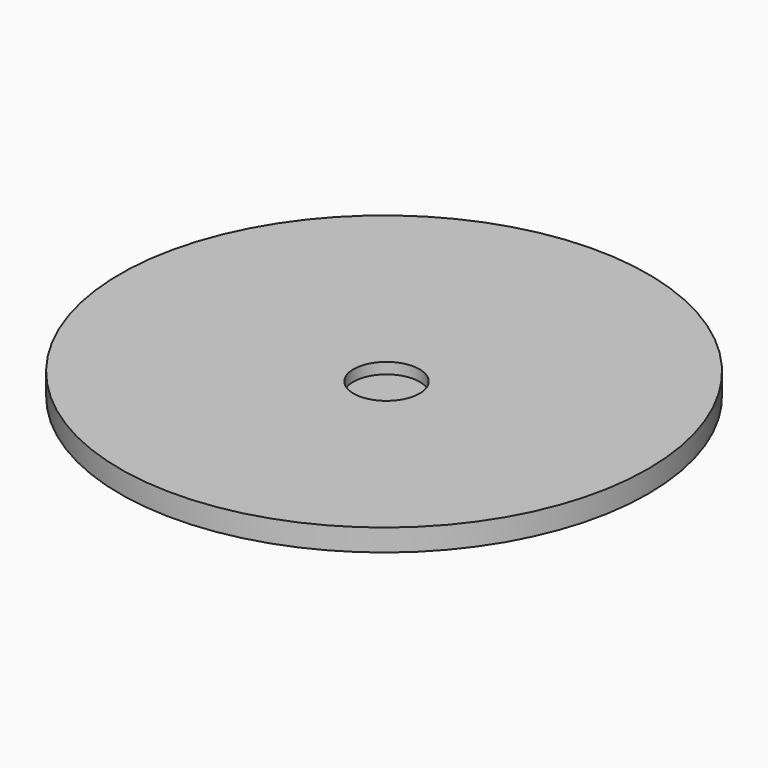
from build123d import *

# Parameters (mm, degrees)
F0_R     = 152.4
F0_R_2   = 16.7386
F1_DEPTH = 12.7
F2_R     = 19.05
F3_DEPTH = 6.35


with BuildPart() as f1:
    # F0 (on Top) → F1 (new body)
    with BuildSketch(Plane.XY):
        Circle(F0_R)
        Circle(F0_R_2, mode=Mode.SUBTRACT)
        Circle(F0_R_2)
    extrude(amount=F1_DEPTH)

    # F2 (on face) → F3 (cut)
    with BuildSketch(Plane.XY.offset(12.7)):
        with Locations((6.903742, -6.857206)):
            Circle(F2_R)
    extrude(amount=-F3_DEPTH, mode=Mode.SUBTRACT)


solid = f1.part
